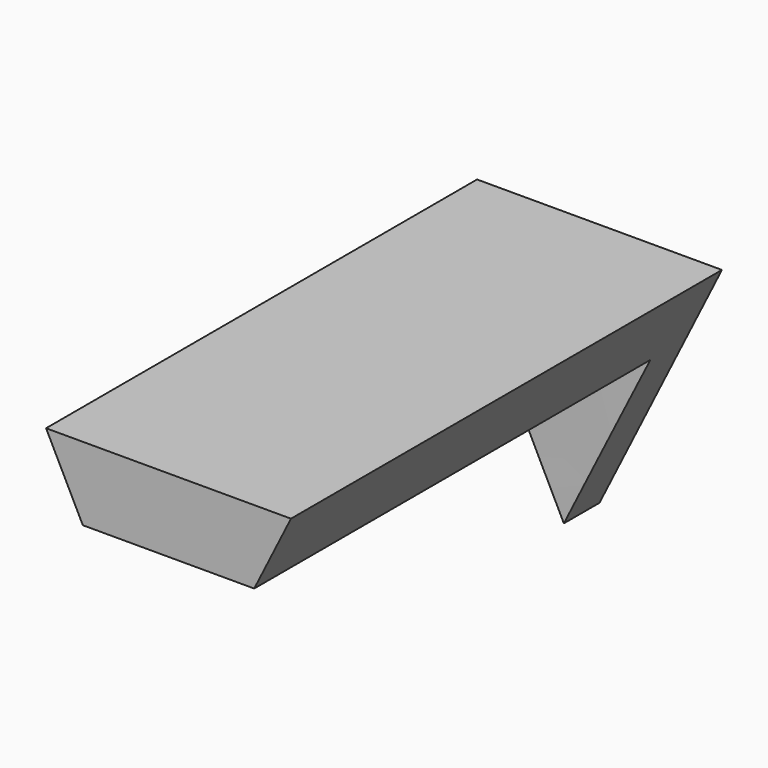
from build123d import *

# Parameters (mm, degrees)
F2_DEPTH = 22
F3_START = -3
F3_DEPTH = 7


with BuildPart() as f2:
    # F0 (on Front) → F2 (new body)
    with BuildSketch(Plane.XZ):
        Polygon((5, 0), (0, 0), (1.5, -3), (8.5, -3), (10, 0), align=None)
        Polygon((8.5, -3), (1.5, -3), (5, -10), align=None)
    extrude(amount=F2_DEPTH)

    # F1 (on Top) → F3 (cut)
    with BuildSketch(Plane.XY.offset(F3_START)):
        with BuildLine():
            ThreePointArc((10, -1.7284815374), (5, -1.8185563593), (0, -1.7284815374))
            Line((0, -1.7284815374), (0, -4.9790858825))
            ThreePointArc((0, -4.9790858825), (5, -5.0670997382), (10, -4.9790858825))
            Line((10, -4.9790858825), (10, -1.7284815374))
        make_face()
        with BuildLine():
            ThreePointArc((10, -4.9790858825), (5, -5.0670997382), (0, -4.9790858825))
            Line((0, -4.9790858825), (0, -23))
            Line((0, -23), (10, -23))
            Line((10, -23), (10, -4.9790858825))
        make_face()
    extrude(amount=-F3_DEPTH, mode=Mode.SUBTRACT)


solid = f2.part
